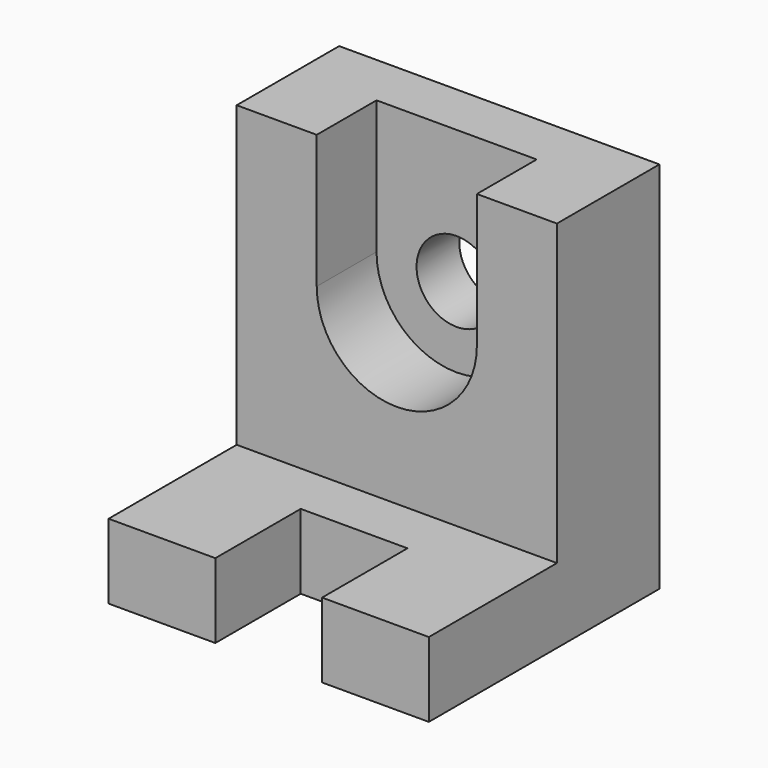
from build123d import *

# Parameters (mm, degrees)
F0_W     = 600
F0_H     = 300
F1_DEPTH = 140
F2_W     = 200
F2_H     = 200
F3_DEPTH = 140.001
F4_W     = 600
F4_H     = 700
F5_DEPTH = 240
F7_DEPTH = 140
F8_R     = 75
F9_DEPTH = 100.001


with BuildPart() as f1:
    # F0 (on Top) → F1 (new body)
    with BuildSketch(Plane.XY):
        Rectangle(F0_W, F0_H)
    extrude(amount=F1_DEPTH)

    # F2 (on face) → F3 (cut, through all)
    with BuildSketch(Plane.XY.offset(140)):
        with Locations((0, -50)):
            Rectangle(F2_W, F2_H)
    extrude(amount=-F3_DEPTH, mode=Mode.SUBTRACT)

    # F4 (on face) → F5 (join)
    with BuildSketch(Plane(origin=(0, 150, 0), x_dir=(-1, 0, 0), z_dir=(0, 1, 0))):
        with Locations((0, 350)):
            Rectangle(F4_W, F4_H)
    extrude(amount=F5_DEPTH)

    # F6 (on face) → F7 (cut)
    with BuildSketch(Plane.XZ.offset(-150)):
        with BuildLine():
            Line((150, 450), (150, 700))
            Line((150, 700), (-150, 700))
            Line((-150, 700), (-150, 450))
            ThreePointArc((-150, 450), (0, 300), (150, 450))
        make_face()
    extrude(amount=-F7_DEPTH, mode=Mode.SUBTRACT)

    # F8 (on face) → F9 (cut, through all)
    with BuildSketch(Plane.XZ.offset(-290)):
        with Locations((0, 450)):
            Circle(F8_R)
    extrude(amount=-F9_DEPTH, mode=Mode.SUBTRACT)


solid = f1.part
